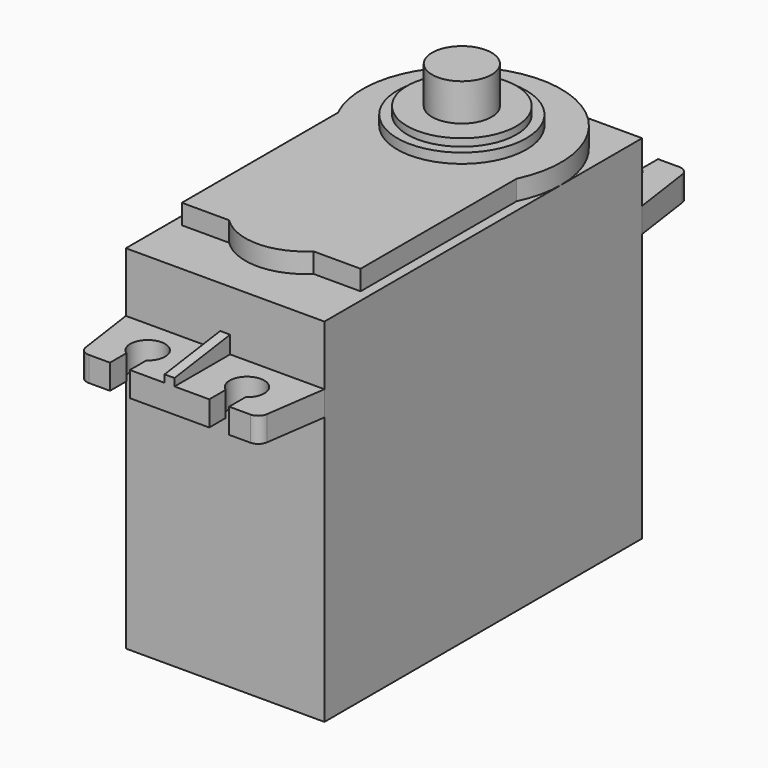
from build123d import *

# Parameters (mm, degrees)
F0_W      = 20
F0_H      = 40
F1_DEPTH  = 35.5
F3_W      = 20
F3_H      = 40
F4_DEPTH  = 2.5
F7_DEPTH  = 0.5
F9_DEPTH  = 2
F10_R     = 6.5
F11_DEPTH = 1
F12_R     = 5.5
F13_DEPTH = 0.75
F14_R     = 3
F15_DEPTH = 3.75
F16_W     = 7.5
F16_H     = 4.75
F17_DEPTH = 7


with BuildPart() as f1:
    # F0 (on Top) → F1 (new body)
    with BuildSketch(Plane.XY):
        with Locations((10, 20)):
            Rectangle(F0_W, F0_H)
    extrude(amount=F1_DEPTH)

    # F3 (on offset) → F4 (join)
    with BuildSketch(Plane.XY.offset(27)):
        with Locations((10, 20)):
            Rectangle(F3_W, F3_H)
        with BuildLine():
            Line((0, 40), (20, 40))
            Line((20, 40), (19.122654, 46.141421))
            ThreePointArc((19.122654, 46.141421), (18.787906, 46.755454), (18.132705, 47))
            Line((18.132705, 47), (16, 47))
            Line((16, 47), (16, 44.936141))
            ThreePointArc((16, 44.936141), (15, 41.75), (14, 44.936141))
            Line((14, 44.936141), (14, 47))
            Line((14, 47), (6, 47))
            Line((6, 47), (6, 44.936141))
            ThreePointArc((6, 44.936141), (5, 41.75), (4, 44.936141))
            Line((4, 44.936141), (4, 47))
            Line((4, 47), (1.867295, 47))
            ThreePointArc((1.867295, 47), (1.212094, 46.755454), (0.877346, 46.141421))
            Line((0.877346, 46.141421), (0, 40))
        make_face()
        with BuildLine():
            Line((19.122654, -6.141421), (20, 0))
            Line((20, 0), (0, 0))
            Line((0, 0), (0.877346, -6.141421))
            ThreePointArc((0.877346, -6.141421), (1.212094, -6.755454), (1.867295, -7))
            Line((1.867295, -7), (4, -7))
            Line((4, -7), (4, -4.936141))
            ThreePointArc((4, -4.936141), (5, -1.75), (6, -4.936141))
            Line((6, -4.936141), (6, -7))
            Line((6, -7), (14, -7))
            Line((14, -7), (14, -4.936141))
            ThreePointArc((14, -4.936141), (15, -1.75), (16, -4.936141))
            Line((16, -4.936141), (16, -7))
            Line((16, -7), (18.132705, -7))
            ThreePointArc((18.132705, -7), (18.787906, -6.755454), (19.122654, -6.141421))
        make_face()
    extrude(amount=F4_DEPTH)

    # F6 (on offset) → F7 (join, symmetric)
    with BuildSketch(Plane.YZ.offset(10)):
        Polygon((40, 31.25), (40, 29.5), (47, 29.5), (47, 30.25), align=None)
        Polygon((-7, 29.5), (0, 29.5), (0, 31.25), (-7, 30.25), align=None)
    extrude(amount=F7_DEPTH, both=True)

    # F8 (on face) → F9 (join)
    with BuildSketch(Plane.XY.offset(35.5)):
        with BuildLine():
            Line((19, 5.8), (19, 25.441101))
            ThreePointArc((19, 25.441101), (10, 39.8), (1, 25.441101))
            Line((1, 25.441101), (1, 5.8))
            Line((1, 5.8), (5.764225, 5.8))
            ThreePointArc((5.764225, 5.8), (10, 4.049495), (14.235775, 5.8))
            Line((14.235775, 5.8), (19, 5.8))
        make_face()
    extrude(amount=F9_DEPTH)

    # F10 (on face) → F11 (join)
    with BuildSketch(Plane.XY.offset(37.5)):
        with Locations((10, 29.8)):
            Circle(F10_R)
    extrude(amount=F11_DEPTH)

    # F12 (on face) → F13 (join)
    with BuildSketch(Plane.XY.offset(38.5)):
        with Locations((10, 29.8)):
            Circle(F12_R)
    extrude(amount=F13_DEPTH)

    # F16 (on face) → F17 (join)
    with BuildSketch(Plane(origin=(0, 40, 0), x_dir=(-1, 0, 0), z_dir=(0, 1, 0))):
        with Locations((-10, 5.625)):
            Rectangle(F16_W, F16_H)
    extrude(amount=F17_DEPTH)


with BuildPart() as f15:
    # F14 (on face) → F15 (new body)
    with BuildSketch(Plane.XY.offset(39.25)):
        with Locations((10, 29.8)):
            Circle(F14_R)
    extrude(amount=F15_DEPTH)


solid = Compound([f1.part, f15.part])
